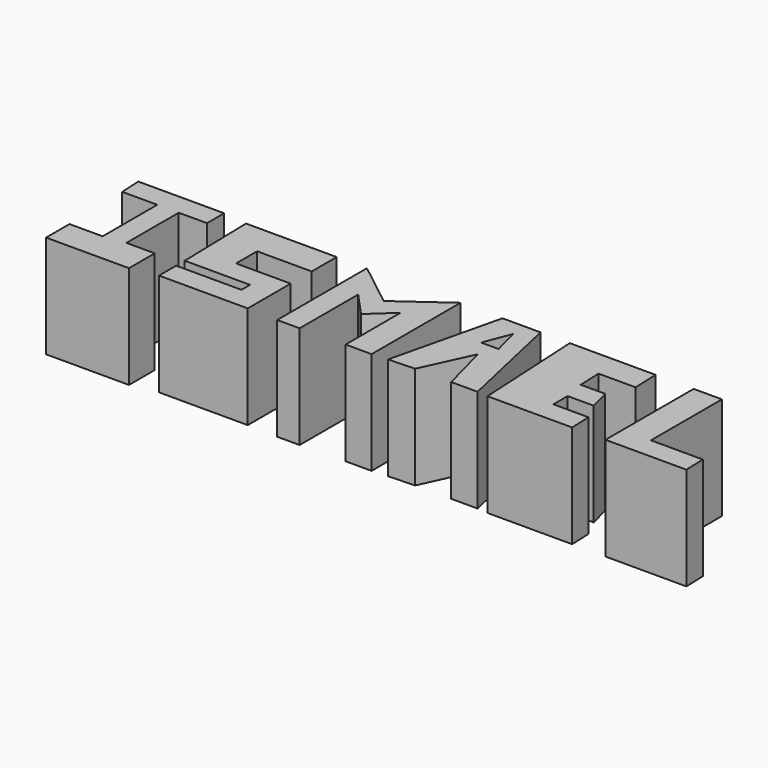
from build123d import *

# Parameters (mm, degrees)
F1_DEPTH = 25.4
F3_DEPTH = 25.4


with BuildPart() as f1:
    # F0 (on Top) → F1 (new body)
    with BuildSketch(Plane.XY):
        Polygon((-75.036883, 33.016175), (-96.24435, 33.016175), (-96.003361, 27.714306), (-87.327577, 27.714306), (-87.327577, 10.844729), (-95.521368, 10.844729), (-95.521368, 3.61491), (-75.036883, 3.61491), (-75.036883, 11.567711), (-82.025707, 11.567711), (-82.025707, 27.714306), (-75.036883, 27.714306), align=None)
    extrude(amount=F1_DEPTH)


with BuildPart() as f3:
    # F2 (on Top) → F3 (new body)
    with BuildSketch(Plane.XY):
        Polygon((-46.65326, 32.293193), (-69.065697, 32.293193), (-68.583712, 12.772681), (-52.437115, 12.772681), (-52.437115, 10.121748), (-68.583712, 10.121748), (-68.583712, 4.81988), (-46.65326, 4.81988), (-46.65326, 18.074548), (-60.148925, 18.074548), (-60.148925, 24.581386), (-46.65326, 24.581386), align=None)
        Polygon((-28.096722, 23.617409), (-39.182447, 32.293193), (-39.182447, 4.578886), (-33.639584, 4.578886), (-33.639584, 22.653433), (-28.096722, 16.628584), (-22.473877, 21.801603), (-22.473877, 4.81988), (-16.047023, 4.81988), (-16.047023, 32.293193), align=None)
        Polygon((-5.684284, 32.293193), (-12.19112, 5.060874), (-5.684284, 5.301868), (0, 17.59256), (3.232493, 5.301868), (9.739333, 5.301868), (3.714483, 32.293193), align=None)
        Polygon((1.745208, 21.801603), (-2.551363, 21.801603), (0, 28.43729), align=None, mode=Mode.SUBTRACT)
        Polygon((32.151774, 32.293193), (10.944301, 32.293193), (12.390264, 5.060874), (33.312114, 5.060874), (33.115748, 10.362742), (24.439966, 10.362742), (24.439966, 14.761201), (30.888446, 14.761201), (29.50084, 20.037201), (23.448919, 20.037201), (23.234997, 25.813097), (32.391777, 25.813097), align=None)
        Polygon((48.539363, 32.293193), (41.550539, 32.293193), (41.550539, 5.060874), (61.553039, 5.060874), (61.356673, 10.362742), (48.539363, 10.362742), align=None)
    extrude(amount=F3_DEPTH)


solid = Compound([f1.part, f3.part])
